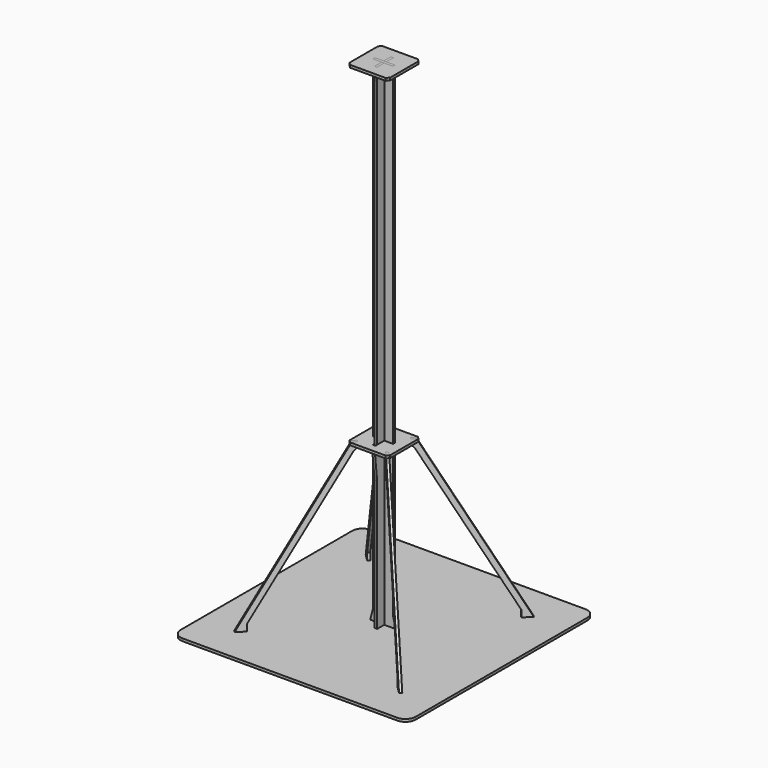
from build123d import *

# Parameters (mm, degrees)
F2_DEPTH   = 3.175
F4_DEPTH   = 1.5875
F6_DEPTH   = 1.5875
F8_W       = 50
F8_H       = 50
F9_DEPTH   = 3.175
F10_W      = 50
F10_H      = 50
F10_W_2    = 3.175
F10_H_2    = 30.5706099812
F11_DEPTH  = 3.175
F12_SIZE   = 3.175
F12_2_SIZE = 3.175
F14_W      = 7.3043266561
F14_H      = 3.175
F15_DEPTH  = 1.5875
F16_COUNT  = 4
F18_R      = 12.7


with BuildPart() as f2:
    # F1 (on Top) → F2 (new body)
    with BuildSketch(Plane.XY):
        with BuildLine():
            Line((2.38e-08, 145), (-145, 145))
            Line((-145, 145), (-145, -1.792e-07))
            ThreePointArc((-145, -1.792e-07), (-102.530483327, 102.5304832171), (2.38e-08, 145))
        make_face()
        with BuildLine():
            Line((145, 145), (2.38e-08, 145))
            ThreePointArc((2.38e-08, 145), (102.5304832805, 102.5304832636), (145, 0))
            Line((145, 0), (145, 145))
        make_face()
        with BuildLine():
            ThreePointArc((145, 0), (102.5304832805, 102.5304832636), (2.38e-08, 145))
            ThreePointArc((2.38e-08, 145), (-102.530483327, 102.5304832171), (-145, -1.792e-07))
            ThreePointArc((-145, -1.792e-07), (-102.5304830206, -102.5304835235), (5.32e-07, -145))
            ThreePointArc((5.32e-07, -145), (102.5304834602, -102.5304830839), (145, 0))
        make_face()
        with BuildLine():
            ThreePointArc((5.32e-07, -145), (-102.5304830206, -102.5304835235), (-145, -1.792e-07))
            Line((-145, -1.792e-07), (-145, -145))
            Line((-145, -145), (5.32e-07, -145))
        make_face()
        with BuildLine():
            Line((145, -145), (145, 0))
            ThreePointArc((145, 0), (102.5304834602, -102.5304830839), (5.32e-07, -145))
            Line((5.32e-07, -145), (145, -145))
        make_face()
    extrude(amount=F2_DEPTH)


with BuildPart() as f4:
    # F3 (on Right) → F4 (new body, symmetric)
    with BuildSketch(Plane.YZ):
        with BuildLine():
            Line((-12.5, 163.774587779), (-12.5, 0))
            Line((-12.5, 0), (12.5, 0))
            Line((12.5, 0), (12.5, 163.774587779))
            ThreePointArc((12.5, 163.774587779), (12.5003062164, 163.7857661552), (12.501223947, 163.7969110031))
            Line((12.501223947, 163.7969110031), (16.4831099812, 200))
            Line((16.4831099812, 200), (14.0875, 200))
            Line((14.0875, 200), (12.8956855081, 189.1640881359))
            ThreePointArc((12.8956855081, 189.1640881359), (12.6875738034, 188.9876430407), (12.5, 189.1857829446))
            Line((12.5, 189.1857829446), (12.5, 597.3))
            Line((12.5, 597.3), (15, 610))
            Line((15, 610), (12.5, 610))
            Line((12.5, 610), (12.5, 613.175))
            Line((12.5, 613.175), (1.5875, 613.175))
            Line((1.5875, 613.175), (1.5875, 308.175))
            Line((1.5875, 308.175), (-1.5875, 308.175))
            Line((-1.5875, 308.175), (-1.5875, 613.175))
            Line((-1.5875, 613.175), (-12.5, 613.175))
            Line((-12.5, 613.175), (-12.5, 610))
            Line((-12.5, 610), (-15, 610))
            Line((-15, 610), (-12.5, 597.3))
            Line((-12.5, 597.3), (-12.5, 189.1857829446))
            ThreePointArc((-12.5, 189.1857829446), (-12.6875738034, 188.9876430407), (-12.8956855081, 189.1640881359))
            Line((-12.8956855081, 189.1640881359), (-14.0875, 200))
            Line((-14.0875, 200), (-16.4831099812, 200))
            Line((-16.4831099812, 200), (-12.501223947, 163.7969110031))
            ThreePointArc((-12.501223947, 163.7969110031), (-12.5003062164, 163.7857661552), (-12.5, 163.774587779))
        make_face()
    extrude(amount=F4_DEPTH, both=True)


with BuildPart() as f6:
    # F5 (on Front) → F6 (new body, symmetric)
    with BuildSketch(Plane.XZ):
        Polygon((-12.5, 3.175), (-12.5, 0), (12.5, 0), (12.5, 3.175), (15.675, 3.175), (12.5, 15.875), (12.5, 613.175), (-12.5, 613.175), (-12.5, 15.875), (-15.675, 3.175), align=None)
    extrude(amount=F6_DEPTH, both=True)

    # F7: cut F4
    add(f4.part, mode=Mode.SUBTRACT)


with BuildPart() as f9:
    # F8 (on face) → F9 (new body)
    with BuildSketch(Plane.XY.offset(610)):
        Rectangle(F8_W, F8_H)
    extrude(amount=F9_DEPTH)

    # F12
    f12_edges = [f9.edges().sort_by_distance(p)[0] for p in [
        (-25, -25, 611.5875),
        (25, -25, 611.5875),
        (25, 25, 611.5875),
        (-25, 25, 611.5875),
    ]]
    chamfer(f12_edges, length=F12_SIZE)


with BuildPart() as f11:
    # F10 (on face) → F11 (new body)
    with BuildSketch(Plane.XY.offset(200)):
        Rectangle(F10_W, F10_H)
        Rectangle(F10_W_2, F10_H_2, mode=Mode.SUBTRACT)
    extrude(amount=F11_DEPTH)

    # F12#2
    f12_2_edges = [f11.edges().sort_by_distance(p)[0] for p in [
        (-25, 25, 201.5875),
        (25, 25, 201.5875),
        (-25, -25, 201.5875),
        (25, -25, 201.5875),
    ]]
    chamfer(f12_2_edges, length=F12_2_SIZE)


with BuildPart() as f15:
    # F14 (on face) → F15 (new body, symmetric)
    with BuildSketch(Plane(origin=(0, 0, 0), x_dir=(0.7071067812, 0.7071067812, 0), z_dir=(0.7071067812, -0.7071067812, 0))):
        Polygon((-25.8059483729, 200), (-33.1102750291, 200), (-145, 3.175), (-145, 0), (-137.6956733439, 0), (-137.6956733439, 3.175), (-132.9331733439, 3.175), (-132.9331733439, 11.5527045903), (-29.4157527858, 193.65), (-22.1537850449, 200), align=None)
        with Locations((-29.458111701, 201.5875)):
            Rectangle(F14_W, F14_H)
    extrude(amount=F15_DEPTH, both=True)


with BuildPart() as f16_1:
    # F16: instance of F15
    add(f15.part.rotate(Axis((0, 0, 153.29375), (0, 0, -1)), 1 * 360 / F16_COUNT))


with BuildPart() as f16_2:
    # F16: instance of F15
    add(f15.part.rotate(Axis((0, 0, 153.29375), (0, 0, -1)), 2 * 360 / F16_COUNT))


with BuildPart() as f16_3:
    # F16: instance of F15
    add(f15.part.rotate(Axis((0, 0, 153.29375), (0, 0, -1)), 3 * 360 / F16_COUNT))


with BuildPart() as f2_1:
    add(f2.part)

    # F17: cut F6, F4, F15, F16_3, F16_2, F16_1
    add(f6.part, mode=Mode.SUBTRACT)
    add(f4.part, mode=Mode.SUBTRACT)
    add(f15.part, mode=Mode.SUBTRACT)
    add(f16_3.part, mode=Mode.SUBTRACT)
    add(f16_2.part, mode=Mode.SUBTRACT)
    add(f16_1.part, mode=Mode.SUBTRACT)

    # F18
    f18_edges = [f2_1.edges().sort_by_distance(p)[0] for p in [
        (-145, 145, 1.5875),
        (-145, -145, 1.5875),
        (145, -145, 1.5875),
        (145, 145, 1.5875),
    ]]
    fillet(f18_edges, radius=F18_R)


with BuildPart() as f9_1:
    add(f9.part)

    # F17: cut F6, F4, F15, F16_3, F16_2, F16_1
    add(f6.part, mode=Mode.SUBTRACT)
    add(f4.part, mode=Mode.SUBTRACT)
    add(f15.part, mode=Mode.SUBTRACT)
    add(f16_3.part, mode=Mode.SUBTRACT)
    add(f16_2.part, mode=Mode.SUBTRACT)
    add(f16_1.part, mode=Mode.SUBTRACT)


with BuildPart() as f11_1:
    add(f11.part)

    # F17: cut F6, F4, F15, F16_3, F16_2, F16_1
    add(f6.part, mode=Mode.SUBTRACT)
    add(f4.part, mode=Mode.SUBTRACT)
    add(f15.part, mode=Mode.SUBTRACT)
    add(f16_3.part, mode=Mode.SUBTRACT)
    add(f16_2.part, mode=Mode.SUBTRACT)
    add(f16_1.part, mode=Mode.SUBTRACT)


solid = Compound([f4.part, f6.part, f15.part, f16_1.part, f16_2.part, f16_3.part, f2_1.part, f9_1.part, f11_1.part])
